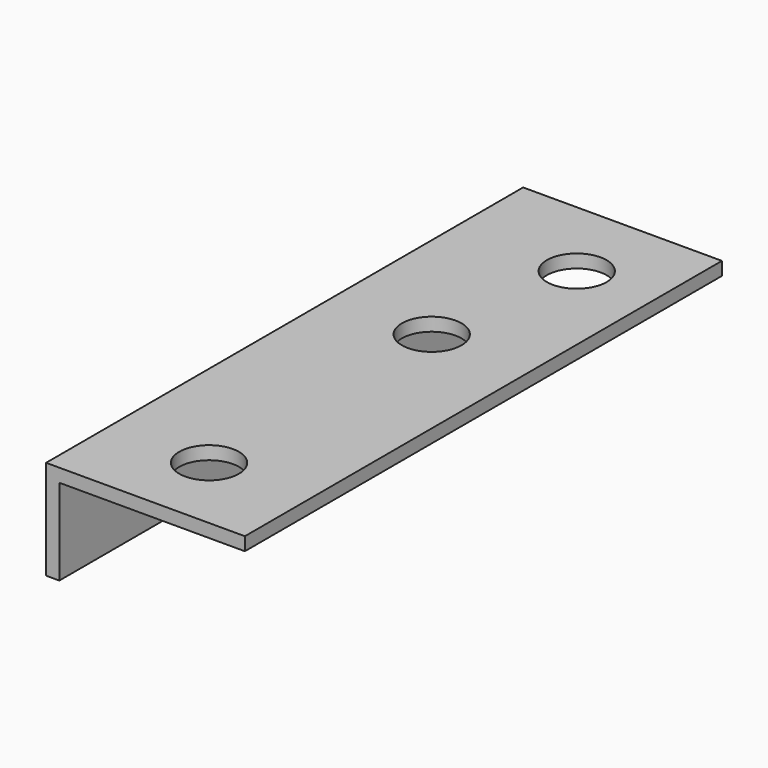
from build123d import *

# Parameters (mm, degrees)
F1_DEPTH = 90
F2_R     = 4.5
F3_DEPTH = 2.001
F4_R     = 4.5
F5_DEPTH = 15.001


with BuildPart() as f1:
    # F0 (on Front) → F1 (new body)
    with BuildSketch(Plane.XZ):
        Polygon((0, 0), (0, -15), (2, -15), (2, -2), (30, -2), (30, 0), align=None)
    extrude(amount=F1_DEPTH)

    # F2 (on face) → F3 (cut, through all)
    with BuildSketch(Plane(origin=(0, 0, -2), x_dir=(1, 0, 0), z_dir=(0, 0, -1))):
        with Locations((15, 78)):
            Circle(F2_R)
        with Locations((15, 36)):
            Circle(F2_R)
    extrude(amount=-F3_DEPTH, mode=Mode.SUBTRACT)

    # F4 (on face) → F5 (cut, through all)
    with BuildSketch(Plane.XY):
        with Locations((18.270568, -12.7287)):
            Circle(F4_R)
    extrude(amount=-F5_DEPTH, mode=Mode.SUBTRACT)


solid = f1.part
